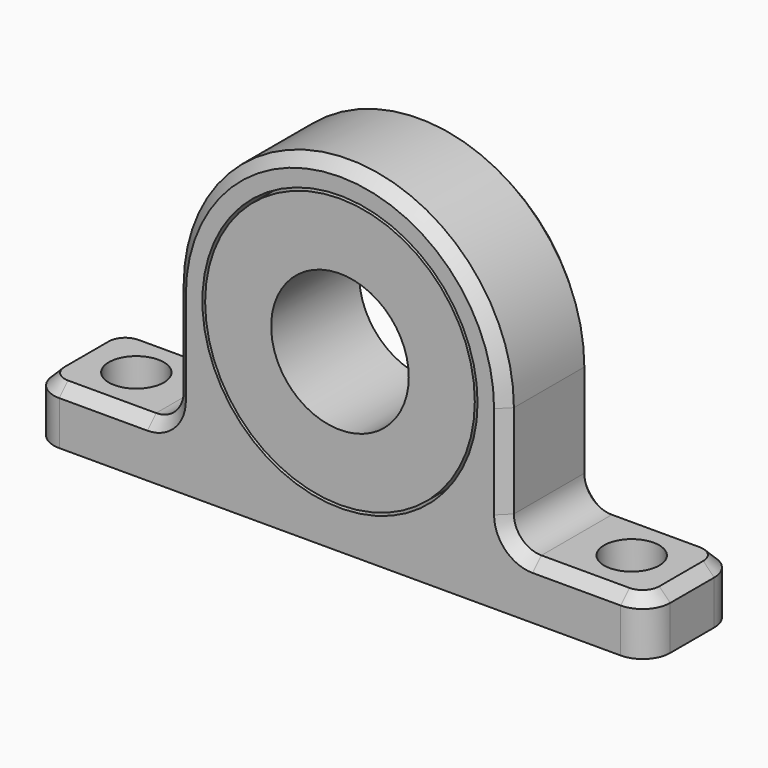
from build123d import *

# Parameters (mm, degrees)
F0_R     = 25
F0_R_2   = 24.5
F0_R_3   = 12.5
F1_DEPTH = 10
F2_R     = 5
F3_R     = 5
F4_DEPTH = 10
F5_SIZE  = 2


with BuildPart() as f1:
    # F0 (on Front) → F1 (new body, symmetric)
    with BuildSketch(Plane.XZ):
        with BuildLine():
            Line((-56, 10), (-56, 0))
            Line((-56, 0), (56, 0))
            Line((56, 0), (56, 10))
            Line((56, 10), (35, 10))
            ThreePointArc((35, 10), (31.464466, 11.464466), (30, 15))
            Line((30, 15), (30, 32))
            ThreePointArc((30, 32), (0, 2), (-30, 32))
            Line((-30, 32), (-30, 15))
            ThreePointArc((-30, 15), (-31.464466, 11.464466), (-35, 10))
            Line((-35, 10), (-56, 10))
        make_face()
        with BuildLine():
            ThreePointArc((30, 32), (0, 62), (-30, 32))
            ThreePointArc((-30, 32), (0, 2), (30, 32))
        make_face()
        with Locations((0, 32)):
            Circle(F0_R, mode=Mode.SUBTRACT)
        with Locations((0, 32)):
            Circle(F0_R_2)
        with Locations((0, 32)):
            Circle(F0_R_3, mode=Mode.SUBTRACT)
    extrude(amount=F1_DEPTH, both=True)

    # F2
    f2_edges = [f1.edges().sort_by_distance(p)[0] for p in [
        (-56, -10, 5),
        (56, -10, 5),
        (56, 10, 5),
        (-56, 10, 5),
    ]]
    fillet(f2_edges, radius=F2_R)

    # F3 (on face) → F4 (cut)
    with BuildSketch(Plane.XY.offset(10)):
        with Locations((-45, 0)):
            Circle(F3_R)
        with Locations((45, 0)):
            Circle(F3_R)
    extrude(amount=-F4_DEPTH, mode=Mode.SUBTRACT)

    # F5
    f5_edges = [f1.edges().sort_by_distance(p)[0] for p in [
        (-30, -10, 23.5),
        (30, -10, 23.5),
        (30, 10, 23.5),
        (-30, 10, 23.5),
    ]]
    chamfer(f5_edges, length=F5_SIZE)


solid = f1.part
